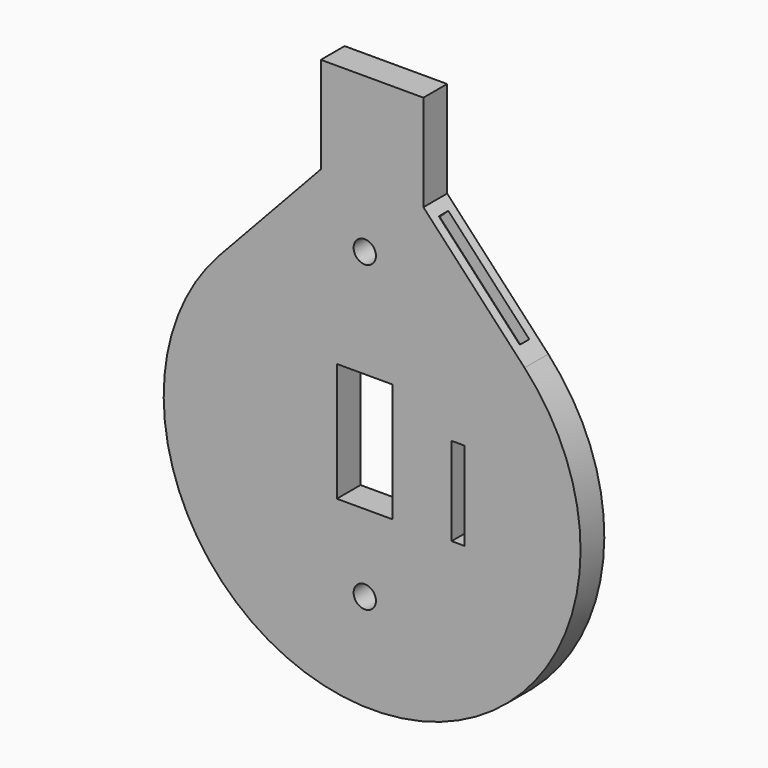
from build123d import *

# Parameters (mm, degrees)
F0_R     = 2.3876
F0_W     = 11.9644477963
F0_H     = 25.4
F0_W_2   = 2.794
F0_H_2   = 18.8976
F1_DEPTH = 3.175
F3_W     = 2.54
F3_H     = 25.4
F4_DEPTH = 2.54
F6_W     = 2.54
F6_H     = 25.4
F7_DEPTH = 2.54


with BuildPart() as f1:
    # F0 (on Front) → F1 (new body, symmetric)
    with BuildSketch(Plane.XZ):
        with BuildLine():
            Line((-9.4017383467, 23.2221963037), (-31.0533456504, 0))
            ThreePointArc((-31.0533456504, 0), (1.5738401562, -75.0292582617), (34.2010259628, 0))
            Line((34.2010259628, 0), (12.5494186591, 23.2221963037))
            Line((12.5494186591, 23.2221963037), (12.5494186591, 43.8596963037))
            Line((12.5494186591, 43.8596963037), (-9.4017383467, 43.8596963037))
            Line((-9.4017383467, 43.8596963037), (-9.4017383467, 23.2221963037))
        make_face()
        with Locations((0, -54.2525947094)):
            Circle(F0_R, mode=Mode.SUBTRACT)
        with Locations((0, -25.0313151628)):
            Rectangle(F0_W, F0_H, mode=Mode.SUBTRACT)
        with Locations((19.9750838982, -28.2825151628)):
            Rectangle(F0_W_2, F0_H_2, mode=Mode.SUBTRACT)
        with Locations((0, 10.739565827)):
            Circle(F0_R, mode=Mode.SUBTRACT)
    extrude(amount=F1_DEPTH, both=True)

    # F3 (on offset) → F4 (cut)
    with BuildSketch(Plane(origin=(-16.6122141895, 0, 15.4886787354), x_dir=(0, -1, 0), z_dir=(-0.7314077576, 0, 0.6819403875))):
        with Locations((0, -4.733831039)):
            Rectangle(F3_W, F3_H)
    extrude(amount=-F4_DEPTH, mode=Mode.SUBTRACT)

    # F6 (on offset) → F7 (cut)
    with BuildSketch(Plane(origin=(18.2960887755, 0, 17.0586676721), x_dir=(0, 1, 0), z_dir=(0.7314077576, 0, 0.6819403875))):
        with Locations((0, -6.8803708986)):
            Rectangle(F6_W, F6_H)
    extrude(amount=-F7_DEPTH, mode=Mode.SUBTRACT)


solid = f1.part
